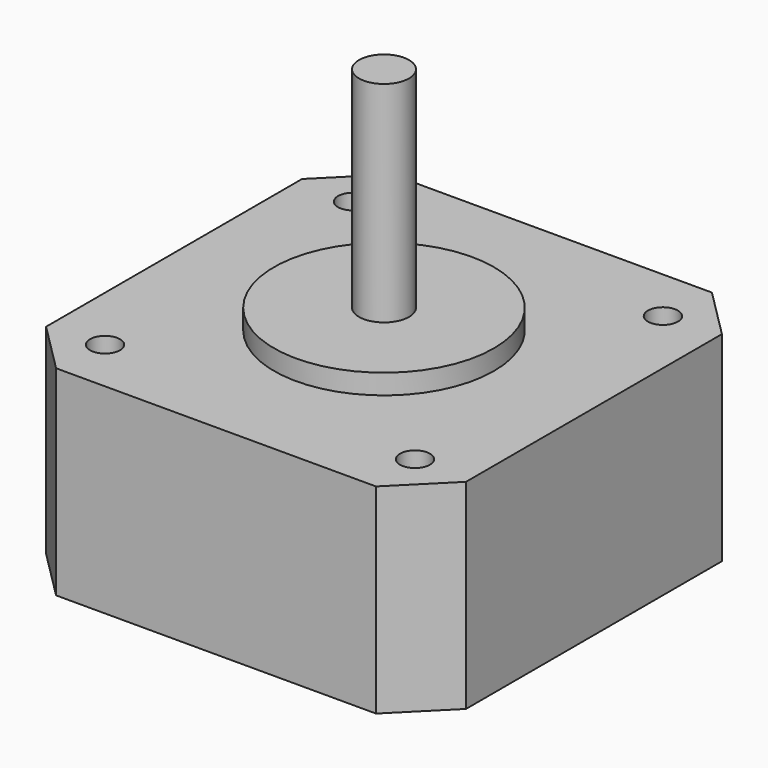
from build123d import *

# Parameters (mm, degrees)
F0_W     = 42
F0_H     = 42
F1_DEPTH = 20
F2_R     = 11
F3_DEPTH = 2
F4_R     = 2.5
F5_DEPTH = 21
F6_R     = 1.5
F7_DEPTH = 4.5
F8_SIZE  = 5


with BuildPart() as f1:
    # F0 (on Top) → F1 (new body)
    with BuildSketch(Plane.XY):
        Rectangle(F0_W, F0_H)
    extrude(amount=F1_DEPTH)

    # F2 (on face) → F3 (join)
    with BuildSketch(Plane.XY.offset(20)):
        Circle(F2_R)
    extrude(amount=F3_DEPTH)

    # F4 (on face) → F5 (join)
    with BuildSketch(Plane.XY.offset(22)):
        Circle(F4_R)
    extrude(amount=F5_DEPTH)

    # F6 (on face) → F7 (cut)
    with BuildSketch(Plane.XY.offset(20)):
        with Locations((-15.5, 15.5)):
            Circle(F6_R)
        with Locations((-15.5, -15.5)):
            Circle(F6_R)
        with Locations((15.5, 15.5)):
            Circle(F6_R)
        with Locations((15.5, -15.5)):
            Circle(F6_R)
    extrude(amount=-F7_DEPTH, mode=Mode.SUBTRACT)

    # F8
    f8_edges = [f1.edges().sort_by_distance(p)[0] for p in [
        (21, 21, 10),
        (21, -21, 10),
        (-21, -21, 10),
        (-21, 21, 10),
    ]]
    chamfer(f8_edges, length=F8_SIZE)


solid = f1.part
